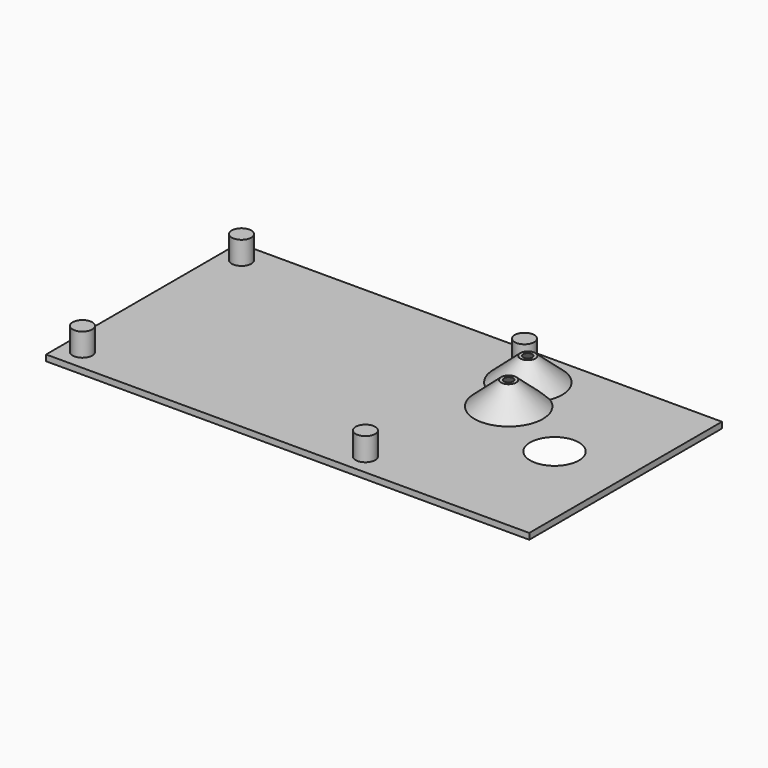
from build123d import *

# Parameters (mm, degrees)
SKETCH001_W                    = 160.5
SKETCH001_H                    = 2
PAD001_DEPTH                   = 40
CYLINDER_R                     = 3.25
CYLINDER_DEPTH                 = 7.65
CYLINDER_LINEARPATTERN_2_R     = 3.25
CYLINDER_LINEARPATTERN_2_DEPTH = 7.65
CLONE_PLACEMENT_ANGLE          = 180


with BuildPart() as part:
    # Sketch001 → Pad001 (new body, symmetric)
    with BuildSketch(Plane.XZ):
        with Locations((-20.25, 21.5)):
            Rectangle(SKETCH001_W, SKETCH001_H)
    extrude(amount=PAD001_DEPTH, both=True)

    # Cone002 → Cone002 (revolve)
    with BuildSketch(Plane(origin=(11.4, -12.2, 12.75), x_dir=(1, 0, 0), z_dir=(0, -1, 0))):
        Polygon((0, 0), (2.5, 0), (12.5, 8.75), (0, 8.75), align=None)
    revolve(axis=Axis((11.4, -12.2, 12.75), (0, 0, 1)))

    # Cone003 → Cone003 (revolve)
    with BuildSketch(Plane(origin=(6.85, -25.85, 12.75), x_dir=(1, 0, 0), z_dir=(0, -1, 0))):
        Polygon((0, 0), (2.5, 0), (12.5, 8.75), (0, 8.75), align=None)
    revolve(axis=Axis((6.85, -25.85, 12.75), (0, 0, 1)))

    # Cylinder → Cylinder (join)
    with BuildSketch(Plane(origin=(0, -33.025, 20.5), x_dir=(1, 0, 0), z_dir=(0, 0, -1))):
        Circle(CYLINDER_R)
    cylinder = extrude(amount=CYLINDER_DEPTH)

    # Cylinder LinearPattern 2 → Cylinder LinearPattern 2 (add)
    with BuildSketch(Plane(origin=(-94, -33.025, 20.5), x_dir=(1, 0, 0), z_dir=(0, 0, -1))):
        Circle(CYLINDER_LINEARPATTERN_2_R)
    cylinder_linearpattern_2 = extrude(amount=CYLINDER_LINEARPATTERN_2_DEPTH)

    # Mirrored: Cylinder, Cylinder LinearPattern 2 across XZ
    add(cylinder.mirror(Plane.XZ))
    add(cylinder_linearpattern_2.mirror(Plane.XZ))

    # Cone001 → Cone001 (revolve, cut)
    with BuildSketch(Plane(origin=(11.4, -12.2, 12.75), x_dir=(1, 0, 0), z_dir=(0, -1, 0))):
        Polygon((0, 0), (1.5, 0), (13.5, 10.75), (0, 10.75), align=None)
    revolve(axis=Axis((11.4, -12.2, 12.75), (0, 0, 1)), mode=Mode.SUBTRACT)

    # Cone004 → Cone004 (revolve, cut)
    with BuildSketch(Plane(origin=(6.85, -25.85, 12.75), x_dir=(1, 0, 0), z_dir=(0, -1, 0))):
        Polygon((0, 0), (1.5, 0), (13.5, 10.75), (0, 10.75), align=None)
    revolve(axis=Axis((6.85, -25.85, 12.75), (0, 0, 1)), mode=Mode.SUBTRACT)

    # Cone → Cone (revolve, cut)
    with BuildSketch(Plane(origin=(36.525, 0.15, 17.5), x_dir=(1, 0, 0), z_dir=(0, -1, 0))):
        Polygon((0, 0), (1.5, 0), (12.5, 5), (0, 5), align=None)
    revolve(axis=Axis((36.525, 0.15, 17.5), (0, 0, 1)), mode=Mode.SUBTRACT)


with BuildPart() as part_1:
    # Clone placement: moved
    add(part.part.moved(Location((0, 0, 1.5))).rotate(Axis((0, 0, 1.5), (1, 0, 0)), CLONE_PLACEMENT_ANGLE))


solid = part_1.part
